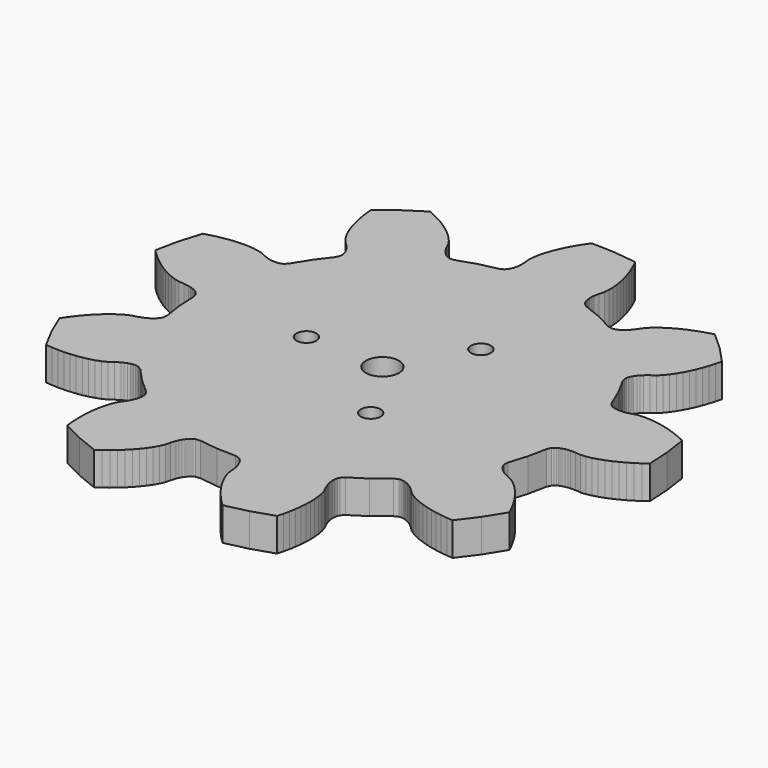
from build123d import *

# Parameters (mm, degrees)
F0_R     = 3.175
F1_DEPTH = 6.35
F2_R     = 1.905
F3_DEPTH = 6.351


with BuildPart() as f1:
    # F0 (on Top) → F1 (new body)
    with BuildSketch(Plane.XY):
        Polygon((-36.805616, 0.437388), (-36.572952, -0.366776), (-36.399978, -3.966972), (-35.870388, -7.532116), (-35.942524, -8.366252), (-36.110926, -8.721852), (-36.2966, -8.993378), (-36.491926, -9.219692), (-36.69411, -9.41578), (-36.901374, -9.589262), (-37.327586, -9.885934), (-37.766244, -10.131806), (-38.214554, -10.338308), (-39.135304, -10.658856), (-40.075866, -10.903204), (-40.970708, -11.32078), (-41.835832, -11.843766), (-42.676826, -12.445238), (-43.49496, -13.114782), (-44.290742, -13.84554), (-45.06341, -14.633448), (-45.812202, -15.475204), (-46.536356, -16.368014), (-47.234856, -17.3101), (-47.906432, -18.299684), (-46.163738, -22.386544), (-44.070524, -26.305764), (-42.878502, -26.402284), (-41.706546, -26.448512), (-40.556942, -26.443686), (-39.431722, -26.387298), (-38.33368, -26.27884), (-37.26561, -26.116788), (-36.231068, -25.898602), (-35.235134, -25.619964), (-34.285428, -25.273508), (-33.399476, -24.837898), (-32.619696, -24.257762), (-31.792926, -23.741126), (-31.350966, -23.521162), (-30.884622, -23.333456), (-30.386274, -23.187152), (-30.121352, -23.13432), (-29.841952, -23.099776), (-29.542994, -23.089108), (-29.214826, -23.114508), (-28.832556, -23.206202), (-28.137104, -23.672546), (-25.690576, -26.31948), (-22.993096, -28.710128), (-22.512274, -29.39542), (-22.412706, -29.775912), (-22.380448, -30.103318), (-22.384512, -30.402276), (-22.413468, -30.682438), (-22.460712, -30.94863), (-22.596602, -31.449772), (-22.774402, -31.919926), (-22.985222, -32.366458), (-23.484332, -33.203896), (-24.047958, -33.995614), (-24.465026, -34.890456), (-24.791416, -35.847274), (-25.048972, -36.848796), (-25.245568, -37.887656), (-25.385268, -38.958774), (-25.470866, -40.058848), (-25.503378, -41.185084), (-25.484074, -42.334688), (-25.413716, -43.505374), (-25.29205, -44.694856), (-21.329904, -46.70552), (-17.20723, -48.362362), (-16.232124, -47.670212), (-15.30477, -46.952154), (-14.4272, -46.209458), (-13.601446, -45.44314), (-12.830048, -44.654216), (-12.116054, -43.843448), (-11.463782, -43.011344), (-10.879836, -42.157904), (-10.375138, -41.281858), (-9.976612, -40.378634), (-9.751822, -39.432992), (-9.450832, -38.505892), (-9.253728, -38.053264), (-9.017, -37.60978), (-8.729218, -37.177472), (-8.560308, -36.966652), (-8.368538, -36.760404), (-8.146288, -36.560252), (-7.878572, -36.368736), (-7.526782, -36.192968), (-6.694424, -36.10356), (-3.118866, -36.558474), (0.484124, -36.655756), (1.293114, -36.871656), (1.613916, -37.09924), (1.849374, -37.329364), (2.038096, -37.561012), (2.196084, -37.794184), (2.330958, -38.028372), (2.549144, -38.499542), (2.715006, -38.974268), (2.840736, -39.451534), (2.996438, -40.41394), (3.073654, -41.38295), (3.329432, -42.336466), (3.694176, -43.279314), (4.140708, -44.212002), (4.657852, -45.134022), (5.239512, -46.044612), (5.881116, -46.942248), (6.580124, -47.825914), (7.333742, -48.694086), (8.140192, -49.545494), (8.99795, -50.378868), (13.325602, -49.372266), (17.548606, -47.991268), (17.850866, -46.834298), (18.099532, -45.68825), (18.29435, -44.555156), (18.434558, -43.437302), (18.518378, -42.336974), (18.544032, -41.256966), (18.50898, -40.200326), (18.407634, -39.171118), (18.231104, -38.175946), (17.956022, -37.227764), (17.520158, -36.35883), (17.154906, -35.455098), (17.014952, -34.981642), (16.911066, -34.489644), (16.853662, -33.973516), (16.847566, -33.703514), (16.862044, -33.422336), (16.903446, -33.126172), (16.985488, -32.807402), (17.142206, -32.446468), (17.722342, -31.842964), (20.753578, -29.893006), (23.576534, -27.65171), (24.334724, -27.297126), (24.7269, -27.265122), (25.055068, -27.290268), (25.348692, -27.346402), (25.619456, -27.423364), (25.873456, -27.516074), (26.343356, -27.7368), (26.775664, -27.993848), (27.178508, -28.278836), (27.916632, -28.915868), (28.598622, -29.608272), (29.407358, -30.174438), (30.292802, -30.662118), (31.23438, -31.0896), (32.223456, -31.463742), (33.254188, -31.787338), (34.322766, -32.06242), (35.426142, -32.290258), (36.561522, -32.470852), (37.72662, -32.60471), (38.919404, -32.691578), (41.58742, -29.138626), (43.934888, -25.366472), (43.42257, -24.285956), (42.87647, -23.247858), (42.29735, -22.254718), (41.686226, -21.308314), (41.043098, -20.411694), (40.368728, -19.567652), (39.662354, -18.781014), (38.923214, -18.057622), (38.148514, -17.408652), (37.328094, -16.85925), (36.435792, -16.473678), (35.574986, -16.016224), (35.163506, -15.743428), (34.767774, -15.433294), (34.392108, -15.0749), (34.2138, -14.871954), (34.043874, -14.647164), (33.885378, -14.393672), (33.743392, -14.096746), (33.631378, -13.71981), (33.687766, -12.884404), (34.756598, -9.442196), (35.478466, -5.910834), (35.831272, -5.151628), (36.11118, -4.875276), (36.378642, -4.683506), (36.639754, -4.53771), (36.896548, -4.422648), (37.150802, -4.330446), (37.652706, -4.197604), (38.148768, -4.116324), (38.640766, -4.075684), (39.615618, -4.0894), (40.583104, -4.181348), (41.566592, -4.095242), (42.558462, -3.899662), (43.55465, -3.62204), (44.552616, -3.27279), (45.550074, -2.858008), (46.5455, -2.382012), (47.537116, -1.847342), (48.523144, -1.255776), (49.501552, -0.609346), (50.47107, 0.090678), (50.231294, 4.527296), (49.60493, 8.926068), (48.51781, 9.424416), (47.432214, 9.868408), (46.350428, 10.257028), (45.273722, 10.58926), (44.20489, 10.862818), (43.14571, 11.07567), (42.098976, 11.224514), (41.067736, 11.303508), (40.05707, 11.302492), (39.07536, 11.196066), (38.144196, 10.917936), (37.19068, 10.715244), (36.699952, 10.659618), (36.19754, 10.6426), (35.67938, 10.67562), (35.412172, 10.716768), (35.137852, 10.77976), (34.853372, 10.871962), (34.553652, 11.008106), (34.225484, 11.225022), (33.731962, 11.90117), (32.33801, 15.225014), (30.62097, 18.394172), (30.403292, 19.202654), (30.440122, 19.594068), (30.521656, 19.913092), (30.627828, 20.192492), (30.750764, 20.44573), (30.886146, 20.679664), (31.185358, 21.104352), (31.513272, 21.485352), (31.864046, 21.83257), (32.619442, 22.448774), (33.419796, 23.000208), (34.117788, 23.698454), (34.752026, 24.485854), (35.33648, 25.338786), (35.876484, 26.247852), (36.37407, 27.206702), (36.830762, 28.211272), (37.24656, 29.25826), (37.621718, 30.345126), (37.955728, 31.469076), (38.248336, 32.628586), (35.212782, 35.873182), (31.905448, 38.840156), (30.752288, 38.523164), (29.63545, 38.165532), (28.556712, 37.767768), (27.518614, 37.330126), (26.52395, 36.852606), (25.575768, 36.334954), (24.678132, 35.776154), (23.837646, 35.17392), (23.063708, 34.523426), (22.380194, 33.810956), (21.845778, 32.999172), (21.245576, 32.230822), (20.90547, 31.872936), (20.531582, 31.537148), (20.113244, 31.2293), (19.882358, 31.089092), (19.63166, 30.960822), (19.354546, 30.848808), (19.0373, 30.760416), (18.646648, 30.715458), (17.833848, 30.916118), (14.629384, 32.56661), (11.277092, 33.890458), (10.590784, 34.37001), (10.36701, 34.693352), (10.22477, 34.990278), (10.126472, 35.272726), (10.057638, 35.545776), (10.011156, 35.811968), (9.967214, 36.329366), (9.973564, 36.832032), (10.01903, 37.323522), (10.201656, 38.281102), (10.460482, 39.218108), (10.54608, 40.201596), (10.526014, 41.212262), (10.42543, 42.24147), (10.254742, 43.284902), (10.019792, 44.339256), (9.723628, 45.402246), (9.369298, 46.471586), (8.958072, 47.545244), (8.49122, 48.621188), (7.970266, 49.69764), (3.559302, 50.231802), (-0.88138, 50.378868), (-1.561084, 49.394872), (-2.186686, 48.402748), (-2.757424, 47.404782), (-3.271266, 46.402244), (-3.726434, 45.396912), (-4.120134, 44.390818), (-4.448302, 43.385994), (-4.705096, 42.384218), (-4.879848, 41.388538), (-4.94538, 40.403526), (-4.833112, 39.438072), (-4.799076, 38.463728), (-4.829556, 37.970968), (-4.900168, 37.473382), (-5.022596, 36.968684), (-5.109464, 36.712652), (-5.218938, 36.453318), (-5.3594, 36.189412), (-5.545328, 35.917886), (-5.815838, 35.63239), (-6.567424, 35.263582), (-10.083038, 34.468054), (-13.502132, 33.32734), (-14.336014, 33.253426), (-14.715236, 33.357566), (-15.01521, 33.493456), (-15.272004, 33.646618), (-15.500096, 33.811464), (-15.706852, 33.985454), (-16.07312, 34.353754), (-16.391382, 34.742882), (-16.67256, 35.14852), (-17.148048, 35.999674), (-17.552162, 36.883594), (-18.118582, 37.69233), (-18.783808, 38.453314), (-19.52244, 39.177214), (-20.32381, 39.866824), (-21.181822, 40.523414), (-22.09165, 41.147492), (-23.050754, 41.738804), (-24.055832, 42.296842), (-25.104852, 42.821098), (-26.196036, 43.31081), (-29.918406, 40.884856), (-33.414462, 38.142926), (-33.302448, 36.952174), (-33.14446, 35.790124), (-32.93999, 34.658808), (-32.689292, 33.560512), (-32.391604, 32.497776), (-32.046672, 31.474156), (-31.651956, 30.493208), (-31.204916, 29.560774), (-30.698694, 28.685744), (-30.115764, 27.888946), (-29.409136, 27.221688), (-28.756864, 26.49728), (-28.46324, 26.100278), (-28.197556, 25.673558), (-27.966924, 25.20823), (-27.86888, 24.956262), (-27.78633, 24.687276), (-27.723846, 24.394668), (-27.692096, 24.067262), (-27.715718, 23.674578), (-28.054554, 22.909022), (-30.23616, 20.039838), (-32.12211, 16.968216), (-32.713422, 16.375634), (-33.0708, 16.21155), (-33.387792, 16.122904), (-33.68294, 16.075152), (-33.963864, 16.054832), (-34.23412, 16.055086), (-34.751264, 16.101822), (-35.245294, 16.195548), (-35.721544, 16.325342), (-36.632896, 16.671798), (-37.510466, 17.08912), (-38.464236, 17.34439), (-39.463218, 17.499838), (-40.494204, 17.579594), (-41.551352, 17.592802), (-42.630598, 17.544542), (-43.728894, 17.437608), (-44.843446, 17.274032), (-45.972222, 17.055592), (-47.112936, 16.782796), (-48.263302, 16.45666), (-49.5554, 12.205462), (-50.47107, 7.857744), (-49.62017, 7.017512), (-48.751998, 6.229096), (-47.868078, 5.493766), (-46.970188, 4.813554), (-46.05909, 4.190746), (-45.136816, 3.62839), (-44.203874, 3.130804), (-43.262042, 2.70383), (-42.311828, 2.358898), (-41.353232, 2.123186), (-40.382952, 2.06629), (-39.417498, 1.930654), (-38.937438, 1.815084), (-38.459664, 1.659128), (-37.983922, 1.450848), (-37.74694, 1.3208), (-37.510466, 1.167892), (-37.274754, 0.983742), (-37.039804, 0.753364), align=None)
        with Locations((-0.33909, -0.431292)):
            Circle(F0_R, mode=Mode.SUBTRACT)
    extrude(amount=F1_DEPTH)

    # F2 (on face) → F3 (cut, through all)
    with BuildSketch(Plane(origin=(0, 0, 0), x_dir=(1, 0, 0), z_dir=(0, 0, -1))):
        with Locations((7.62, 13.198227)):
            Circle(F2_R)
        with Locations((7.62, -13.198227)):
            Circle(F2_R)
        with Locations((-15.24, 0)):
            Circle(F2_R)
    extrude(amount=-F3_DEPTH, mode=Mode.SUBTRACT)


solid = f1.part
